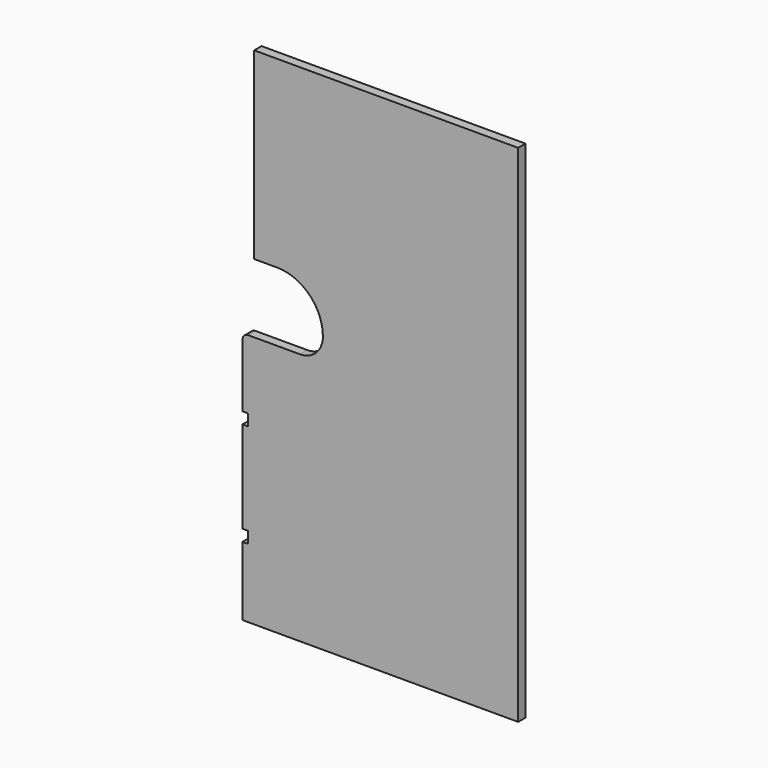
from build123d import *

# Parameters (mm, degrees)
F0_W      = 1200
F0_H      = 2200
F1_DEPTH  = 40
F2_W      = 50
F2_H      = 1000
F3_DEPTH  = 10
F5_DEPTH  = 40.001
F6_R      = 25
F8_DEPTH  = 40.001
F9_W      = 25
F9_H      = 50
F10_DEPTH = 40.001
F12_D     = 14
F12_DEPTH = 31
F12_TIP   = 4.2060243332


with BuildPart() as f1:
    # F0 (on Front) → F1 (new body)
    with BuildSketch(Plane.XZ):
        Rectangle(F0_W, F0_H)
    extrude(amount=F1_DEPTH)

    # F2 (on face) → F3 (cut)
    with BuildSketch(Plane(origin=(0, 0, 0), x_dir=(-1, 0, 0), z_dir=(0, 1, 0))):
        with Locations((525, -600)):
            Rectangle(F2_W, F2_H)
    extrude(amount=-F3_DEPTH, mode=Mode.SUBTRACT)

    # F4 (on face) → F5 (cut, through all)
    with BuildSketch(Plane.XZ.offset(40)):
        with BuildLine():
            Line((-600, 300), (-600, 0))
            Line((-600, 0), (-350, 0))
            ThreePointArc((-350, 0), (-279.2893218813, 29.2893218813), (-250, 100))
            ThreePointArc((-250, 100), (-308.5786437627, 241.4213562373), (-450, 300))
            Line((-450, 300), (-600, 300))
        make_face()
    extrude(amount=-F5_DEPTH, mode=Mode.SUBTRACT)

    # F6
    f6_edges = [f1.edges().sort_by_distance(p)[0] for p in [
        (-600, -20, 300),
        (-600, -20, 0),
    ]]
    fillet(f6_edges, radius=F6_R)

    # F7 (on face) → F8 (cut, through all)
    with BuildSketch(Plane.XZ.offset(40)):
        with BuildLine():
            Line((-549.1, 1100), (-600, 1100))
            Line((-600, 1100), (-600, 325))
            ThreePointArc((-600, 325), (-592.6776695297, 307.3223304703), (-575, 300))
            Line((-575, 300), (-549.1, 300))
            Line((-549.1, 300), (-549.1, 1100))
        make_face()
    extrude(amount=-F8_DEPTH, mode=Mode.SUBTRACT)

    # F9 (on face) → F10 (cut, through all)
    with BuildSketch(Plane.XZ.offset(40)):
        with Locations((-587.5, -325)):
            Rectangle(F9_W, F9_H)
        with Locations((-587.5, -775)):
            Rectangle(F9_W, F9_H)
    extrude(amount=-F10_DEPTH, mode=Mode.SUBTRACT)

    # F12
    with Locations(Plane(origin=(-600, 0, 0), x_dir=(0, -1, 0), z_dir=(-1, 0, 0))):
        with Locations((20, -1050), (20, -950), (20, -850), (20, -700), (20, -600), (20, -500), (20, -400), (20, -250), (20, -150), (20, -50)):
            Hole(F12_D / 2, depth=F12_DEPTH)
            with Locations((0, 0, -(F12_DEPTH + F12_TIP / 2))):  # 118° drill point
                Cone(0, F12_D / 2, F12_TIP, mode=Mode.SUBTRACT)


solid = f1.part
